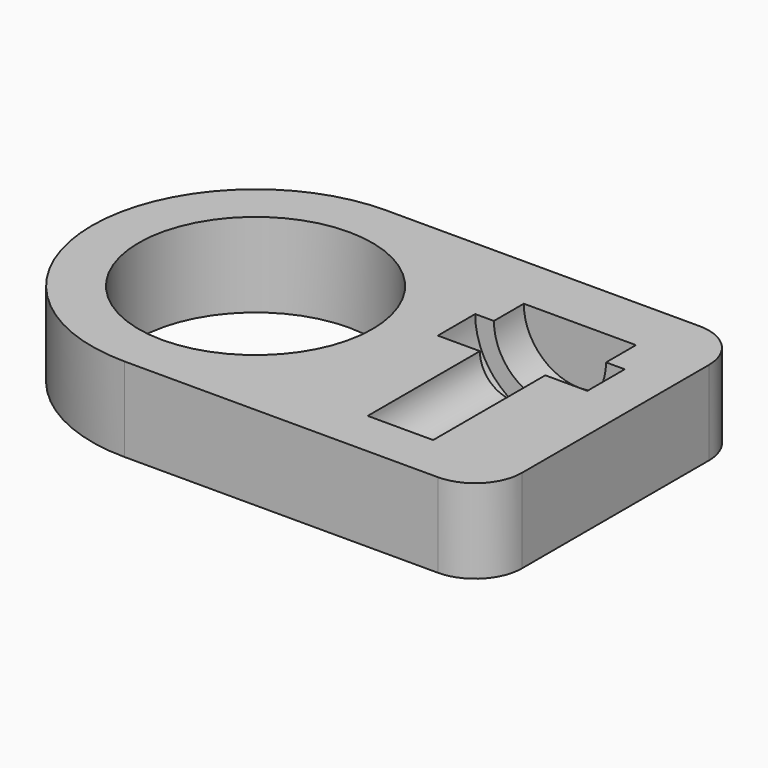
from build123d import *

# Parameters (mm, degrees)
F0_R     = 12.5
F1_DEPTH = 9


with BuildPart() as f1:
    # F0 (on Top) → F1 (new body)
    with BuildSketch(Plane.XY):
        with BuildLine():
            ThreePointArc((0, 17.5), (5.125631, 5.125631), (17.5, 0))
            Line((17.5, 0), (51, 0))
            ThreePointArc((51, 0), (54.535534, 1.464466), (56, 5))
            Line((56, 5), (56, 30))
            ThreePointArc((56, 30), (54.535534, 33.535534), (51, 35))
            Line((51, 35), (17.5, 35))
            ThreePointArc((17.5, 35), (5.125631, 29.874369), (0, 17.5))
        make_face()
        with Locations((17.5, 17.5)):
            Circle(F0_R, mode=Mode.SUBTRACT)
    extrude(amount=F1_DEPTH)

    # F2 (on face) → F3 (revolve, cut)
    with BuildSketch(Plane.XY.offset(9)):
        Polygon((43, 20), (43, 5), (46.5, 5), (46.5, 20), (51, 20), (51, 25), (49, 25), (49, 29), (43, 29), (43, 25), align=None)
    revolve(axis=Axis((43, 12.5, 9), (0, 1, 0)), mode=Mode.SUBTRACT)


solid = f1.part
